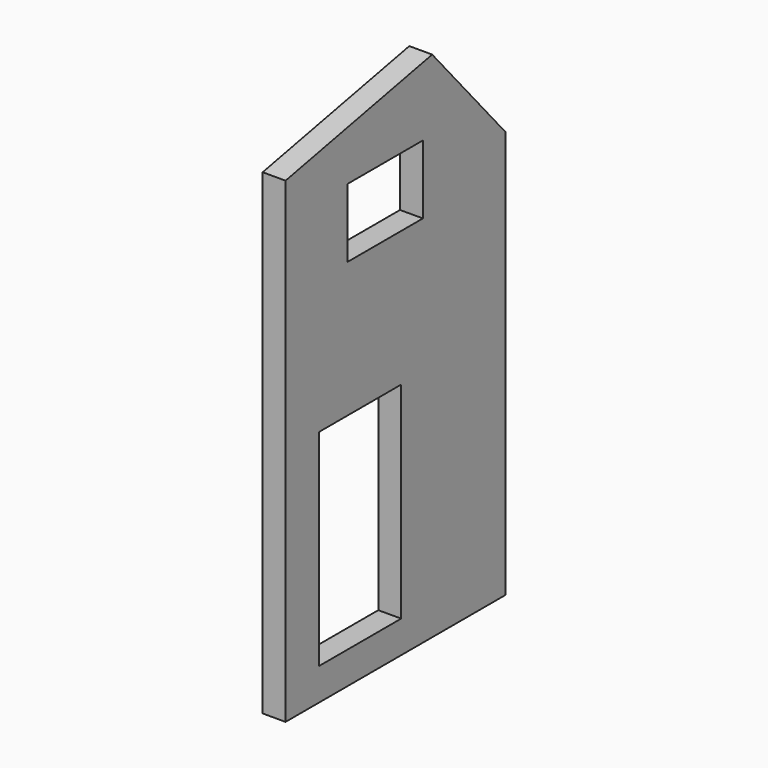
from build123d import *

# Parameters (mm, degrees)
F0_W     = 2438.4
F0_H     = 4707.636
F1_DEPTH = 203.2
F2_W     = 914.4
F2_H     = 1828.8
F3_DEPTH = 203.2
F4_W     = 596.9
F4_H     = 609.6
F5_DEPTH = 203.2


with BuildPart() as f1:
    # F0 (on Right) → F1 (new body)
    with BuildSketch(Plane.YZ):
        with Locations((-158.120304, 9.323397)):
            Rectangle(F0_W, F0_H)
    extrude(amount=F1_DEPTH)

    # F2 (on face) → F3 (cut)
    with BuildSketch(Plane(origin=(0, 0, 0), x_dir=(0, -1, 0), z_dir=(-1, 0, 0))):
        Polygon((-1061.079696, 1275.005397), (-249.202393, 2208.963397), (-249.202393, 2363.141397), (-1061.079696, 2363.141397), align=None)
        Polygon((-249.202393, 2363.141397), (-249.202393, 2208.963397), (1377.320304, 1884.605397), (1377.320304, 2363.141397), align=None)
        with Locations((551.820304, -1144.344603)):
            Rectangle(F2_W, F2_H)
    extrude(amount=-F3_DEPTH, mode=Mode.SUBTRACT)

    # F4 (on face) → F5 (cut)
    with BuildSketch(Plane(origin=(0, 0, 0), x_dir=(0, -1, 0), z_dir=(-1, 0, 0))):
        Polygon((-146.679696, 970.205397), (94.620304, 970.205397), (94.620304, 1579.805397), (-146.679696, 1579.805397), (-146.679696, 1157.968163), align=None)
        with Locations((393.070304, 1275.005397)):
            Rectangle(F4_W, F4_H)
    extrude(amount=-F5_DEPTH, mode=Mode.SUBTRACT)


solid = f1.part
